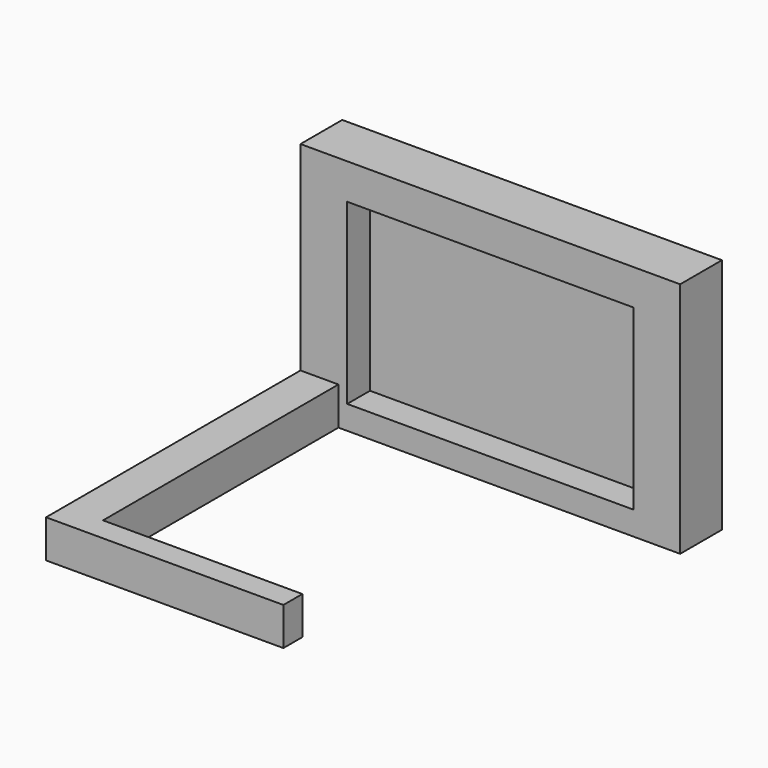
from build123d import *

# Parameters (mm, degrees)
F0_R     = 4.75
F1_DEPTH = 6
F2_R     = 4.75
F3_DEPTH = 11
F4_W     = 60.3
F4_H     = 37.5
F5_DEPTH = 6
F6_W     = 8
F6_H     = 8
F7_DEPTH = 67
F8_W     = 42
F8_H     = 8
F9_DEPTH = 5


with BuildPart() as f1:
    # F0 (on Front) → F1 (new body)
    with BuildSketch(Plane.XZ):
        with Locations((-27, 0)):
            Circle(F0_R)
    extrude(amount=F1_DEPTH)


with BuildPart() as f1b:
    # F0 (on Front) → F1, piece 2 (new body)
    with BuildSketch(Plane.XZ):
        with Locations((27, 0)):
            Circle(F0_R)
    extrude(amount=F1_DEPTH)


with BuildPart() as f3:
    # F2 (on face) → F3 (new body)
    with BuildSketch(Plane.XZ.offset(6)):
        Polygon((-40, -15), (40, -15), (40, 15), (40, 35), (-40, 35), (-40, 15), align=None)
        with Locations((-27, 0)):
            Circle(F2_R, mode=Mode.SUBTRACT)
        with Locations((-27, 0)):
            Circle(F2_R)
    extrude(amount=F3_DEPTH)

    # F4 (on face) → F5 (cut)
    with BuildSketch(Plane.XZ.offset(17)):
        with Locations((0, 8.75)):
            Rectangle(F4_W, F4_H)
    extrude(amount=-F5_DEPTH, mode=Mode.SUBTRACT)

    # F6 (on face) → F7 (join)
    with BuildSketch(Plane.XZ.offset(17)):
        with Locations((-36, -11)):
            Rectangle(F6_W, F6_H)
    extrude(amount=F7_DEPTH)

    # F8 (on face) → F9 (join)
    with BuildSketch(Plane.XZ.offset(84)):
        with Locations((-11, -11)):
            Rectangle(F8_W, F8_H)
    extrude(amount=-F9_DEPTH)


solid = Compound([f1.part, f1b.part, f3.part])
